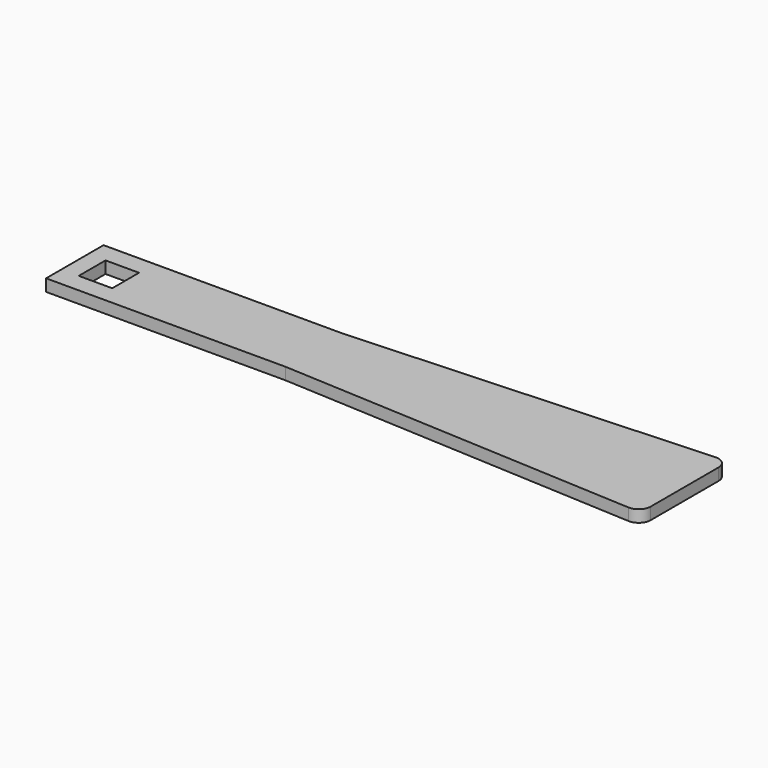
from build123d import *

# Parameters (mm, degrees)
F1_DEPTH = 5
F2_W     = 14
F2_H     = 14
F3_DEPTH = 5
F4_R     = 5


with BuildPart() as f1:
    # F0 (on Top) → F1 (new body)
    with BuildSketch(Plane.XY):
        Polygon((0, 15), (0, 0), (0, -15), (100, -15), (254.793411, -23), (254.793411, 0), (254.793411, 23), (100, 15), align=None)
    extrude(amount=F1_DEPTH)

    # F2 (on Top) → F3 (cut, through all)
    with BuildSketch(Plane.XY):
        with Locations((14.239932, 0)):
            Rectangle(F2_W, F2_H)
    extrude(amount=F3_DEPTH, mode=Mode.SUBTRACT)

    # F4
    f4_edges = [f1.edges().sort_by_distance(p)[0] for p in [
        (254.793411, -23, 2.5),
        (254.793411, 23, 2.5),
    ]]
    fillet(f4_edges, radius=F4_R)


solid = f1.part
